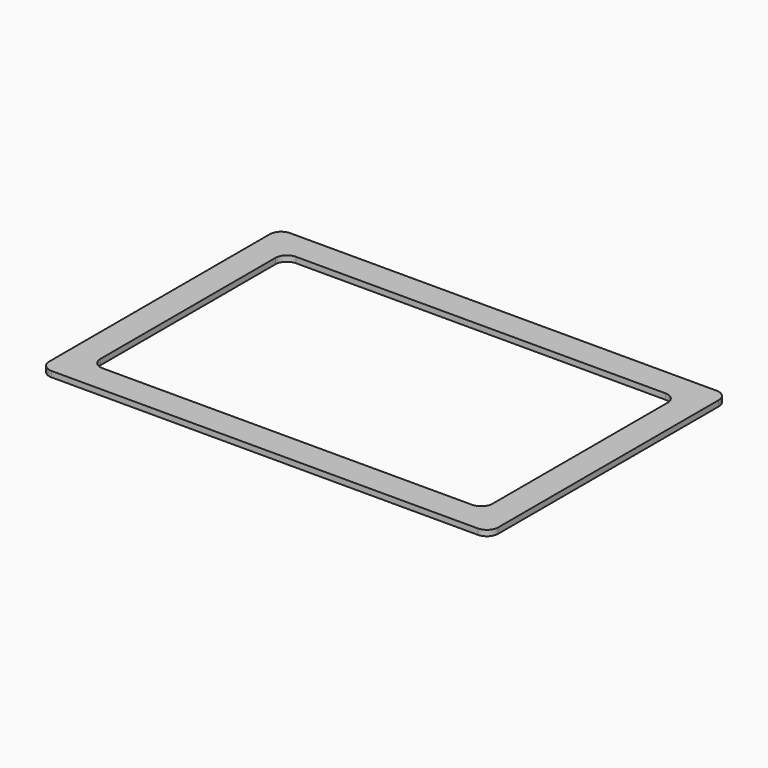
from build123d import *

# Parameters (mm, degrees)
F0_W     = 200.66
F0_H     = 133.35
F1_DEPTH = 2.54
F2_R     = 5.08
F3_W     = 175.26
F3_H     = 107.95
F4_DEPTH = 5.08
F5_R     = 5.08


with BuildPart() as f1:
    # F0 (on Top) → F1 (new body)
    with BuildSketch(Plane.XY):
        with Locations((-30.6939995439, 1.6928559164)):
            Rectangle(F0_W, F0_H)
    extrude(amount=F1_DEPTH)

    # F2
    f2_edges = [f1.edges().sort_by_distance(p)[0] for p in [
        (69.636, -64.982144, 1.27),
        (69.636, 68.367856, 1.27),
        (-131.024, -64.982144, 1.27),
        (-131.024, 68.367856, 1.27),
    ]]
    fillet(f2_edges, radius=F2_R)

    # F3 (on face) → F4 (cut)
    with BuildSketch(Plane.XY.offset(2.54)):
        with Locations((-30.6939995439, 1.6928559164)):
            Rectangle(F3_W, F3_H)
    extrude(amount=-F4_DEPTH, mode=Mode.SUBTRACT)

    # F5
    f5_edges = [f1.edges().sort_by_distance(p)[0] for p in [
        (-118.324, -52.282144, 1.27),
        (56.936, -52.282144, 1.27),
        (56.936, 55.667856, 1.27),
        (-118.324, 55.667856, 1.27),
    ]]
    fillet(f5_edges, radius=F5_R)


solid = f1.part
